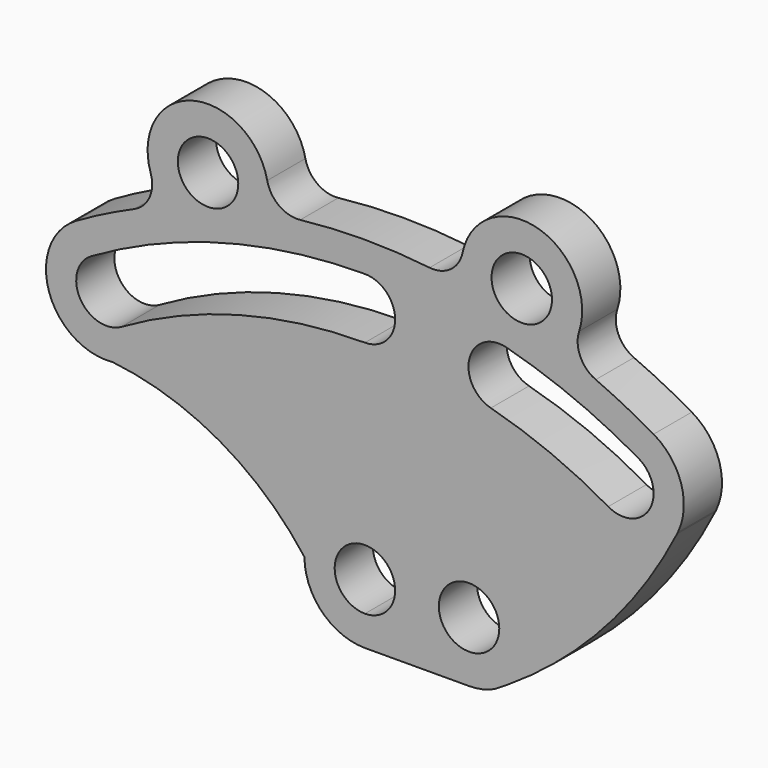
from build123d import *

# Parameters (mm, degrees)
F0_R     = 4.826
F1_DEPTH = 7.62


with BuildPart() as f1:
    # F0 (on Front) → F1 (new body)
    with BuildSketch(Plane.XZ):
        with BuildLine():
            ThreePointArc((49.975195, 67.310958), (50.496813, 74.339831), (46.101, 79.849274))
            ThreePointArc((46.101, 79.849274), (41.548284, 82.310078), (36.864672, 84.511566))
            ThreePointArc((36.864672, 84.511566), (34.388058, 86.966295), (34.211803, 90.448859))
            ThreePointArc((34.211803, 90.448859), (27.545076, 102.799622), (15.596139, 95.436912))
            ThreePointArc((15.596139, 95.436912), (13.702216, 92.50905), (10.33004, 91.621499))
            ThreePointArc((10.33004, 91.621499), (0, 92.202), (-10.33004, 91.621499))
            ThreePointArc((-10.33004, 91.621499), (-13.702216, 92.50905), (-15.596139, 95.436912))
            ThreePointArc((-15.596139, 95.436912), (-27.545076, 102.799622), (-34.211803, 90.448859))
            ThreePointArc((-34.211803, 90.448859), (-34.388058, 86.966295), (-36.864672, 84.511566))
            ThreePointArc((-36.864672, 84.511566), (-41.548284, 82.310078), (-46.101, 79.849274))
            ThreePointArc((-46.101, 79.849274), (-50.456693, 68.514223), (-40.279597, 61.889862))
            ThreePointArc((-40.279597, 61.889862), (-23.16342, 56.335238), (-9.652, 44.45))
            ThreePointArc((-9.652, 44.45), (-6.824995, 37.625005), (0, 34.798))
            Line((0, 34.798), (16.630967, 34.853938))
            ThreePointArc((16.630967, 34.853938), (18.672421, 35.072297), (20.621506, 35.717496))
            ThreePointArc((20.621506, 35.717496), (21.649858, 36.33829), (22.668297, 36.975217))
            ThreePointArc((22.668297, 36.975217), (38.287484, 50.166348), (49.837368, 67.035405))
            ThreePointArc((49.837368, 67.035405), (49.906421, 67.173112), (49.975195, 67.310958))
        make_face()
        with BuildLine():
            ThreePointArc((4.826, 44.45), (3.412497, 41.037503), (0, 39.624))
            ThreePointArc((0, 39.624), (-3.412497, 47.862497), (4.826, 44.45))
        make_face(mode=Mode.SUBTRACT)
        with Locations((16.630967, 44.505938)):
            Circle(F0_R, mode=Mode.SUBTRACT)
        with BuildLine():
            ThreePointArc((-38.862, 67.310958), (-45.454439, 69.077397), (-43.688, 75.669836))
            ThreePointArc((-43.688, 75.669836), (-22.614573, 84.398735), (0, 87.376))
            ThreePointArc((0, 87.376), (4.826, 82.55), (0, 77.724))
            ThreePointArc((0, 77.724), (-20.116451, 75.075619), (-38.862, 67.310958))
        make_face(mode=Mode.SUBTRACT)
        with Locations((-25.046954, 93.476506)):
            Circle(F0_R, mode=Mode.SUBTRACT)
        with BuildLine():
            ThreePointArc((20.116451, 75.075619), (16.703954, 80.986238), (22.614573, 84.398735))
            ThreePointArc((22.614573, 84.398735), (33.437348, 80.724898), (43.688, 75.669836))
            ThreePointArc((43.688, 75.669836), (45.454439, 69.077397), (38.862, 67.310958))
            ThreePointArc((38.862, 67.310958), (29.743687, 71.807613), (20.116451, 75.075619))
        make_face(mode=Mode.SUBTRACT)
        with Locations((25.046954, 93.476506)):
            Circle(F0_R, mode=Mode.SUBTRACT)
    extrude(amount=F1_DEPTH)


solid = f1.part
